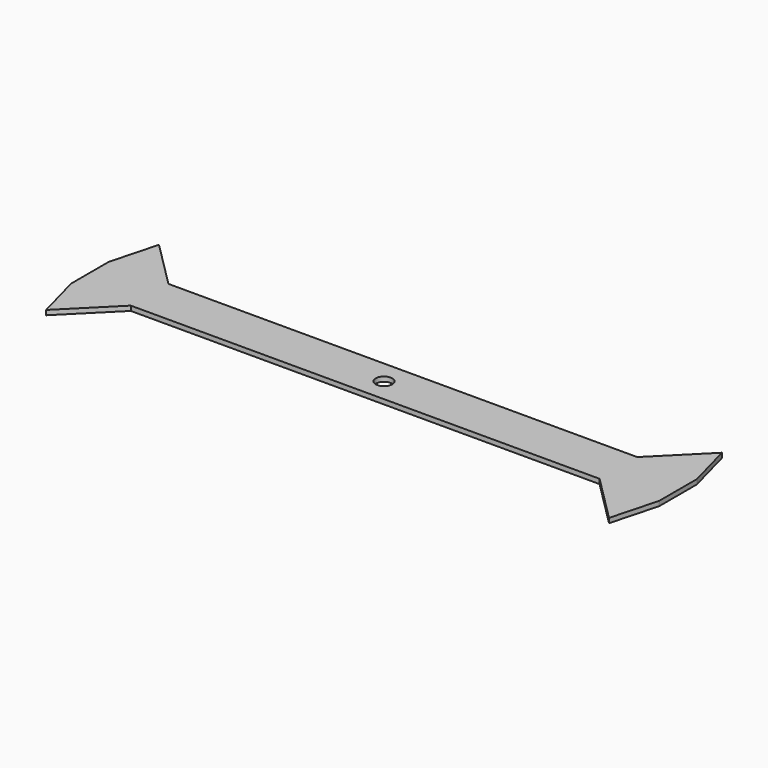
from build123d import *

# Parameters (mm, degrees)
F0_R     = 3.5
F1_DEPTH = 2


with BuildPart() as f1:
    # F0 (on Top) → F1 (new body)
    with BuildSketch(Plane.XY):
        Polygon((125, -10), (125, 10), (99.641016, 10), (-99.641016, 10), (-125, 10), (-125, -10), (-99.641016, -10), (99.641016, -10), align=None)
        Circle(F0_R, mode=Mode.SUBTRACT)
        Polygon((99.641016, 10), (125, 10), (119.641016, 30), align=None)
        Polygon((119.641016, -30), (125, -10), (99.641016, -10), align=None)
        Polygon((-125, 10), (-99.641016, 10), (-119.641016, 30), align=None)
        Polygon((-119.641016, -30), (-99.641016, -10), (-125, -10), align=None)
    extrude(amount=F1_DEPTH)


solid = f1.part
